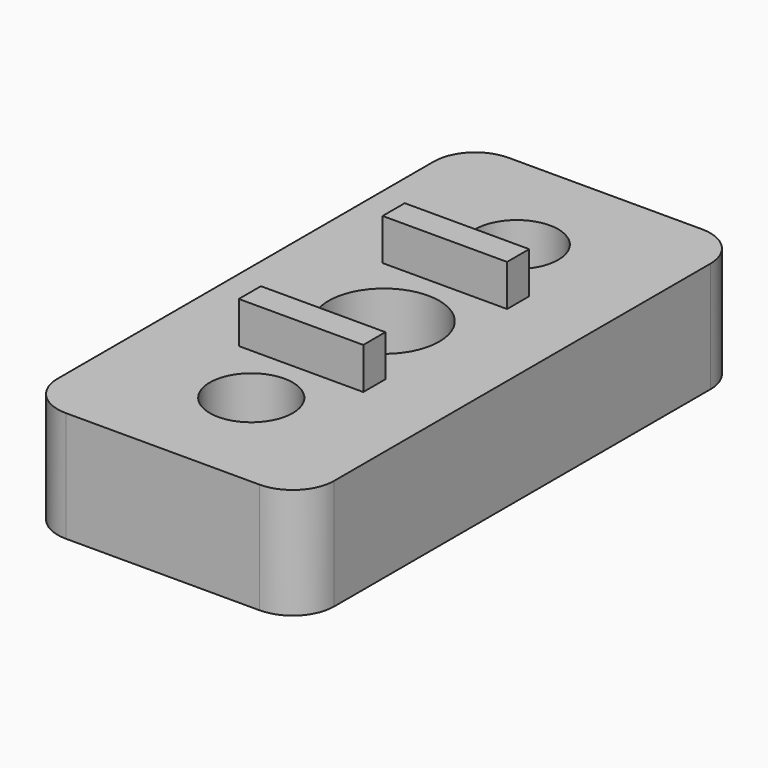
from build123d import *

# Parameters (mm, degrees)
F1_DEPTH = 8
F2_R     = 3
F3_DEPTH = 8
F4_R     = 4
F5_DEPTH = 8
F6_W     = 9
F6_H     = 2
F7_DEPTH = 3


with BuildPart() as f1:
    # F0 (on Top) → F1 (new body)
    with BuildSketch(Plane.XY):
        with BuildLine():
            Line((7, 20), (-7, 20))
            ThreePointArc((-7, 20), (-9.12132, 19.12132), (-10, 17))
            Line((-10, 17), (-10, -17))
            ThreePointArc((-10, -17), (-9.12132, -19.12132), (-7, -20))
            Line((-7, -20), (7, -20))
            ThreePointArc((7, -20), (9.12132, -19.12132), (10, -17))
            Line((10, -17), (10, 17))
            ThreePointArc((10, 17), (9.12132, 19.12132), (7, 20))
        make_face()
    extrude(amount=F1_DEPTH)

    # F2 (on face) → F3 (cut, through all)
    with BuildSketch(Plane.XY.offset(8)):
        with Locations((0, 12)):
            Circle(F2_R)
        with Locations((0, -12)):
            Circle(F2_R)
    extrude(amount=-F3_DEPTH, mode=Mode.SUBTRACT)

    # F4 (on face) → F5 (cut, through all)
    with BuildSketch(Plane.XY.offset(8)):
        Circle(F4_R)
    extrude(amount=-F5_DEPTH, mode=Mode.SUBTRACT)

    # F6 (on face) → F7 (join)
    with BuildSketch(Plane.XY.offset(8)):
        with Locations((0, -6.5)):
            Rectangle(F6_W, F6_H)
        with Locations((0, 6.5)):
            Rectangle(F6_W, F6_H)
    extrude(amount=F7_DEPTH)


solid = f1.part
